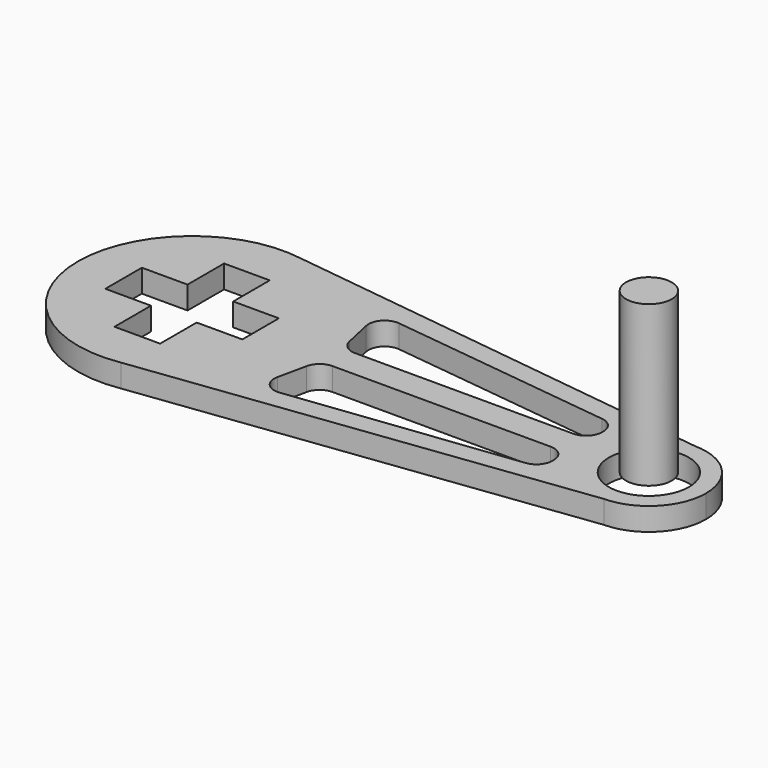
from build123d import *

# Parameters (mm, degrees)
F0_R     = 17.5
F1_DEPTH = 10
F2_R     = 10
F3_DEPTH = 70


with BuildPart() as f1:
    # F0 (on Top) → F1 (new body)
    with BuildSketch(Plane.XY):
        with BuildLine():
            ThreePointArc((8.223971, -49.319026), (38.152317, -32.317189), (50, 0))
            ThreePointArc((50, 0), (38.152317, 32.317189), (8.223971, 49.319026))
            ThreePointArc((8.223971, 49.319026), (-50, 0), (8.223971, -49.319026))
        make_face()
        Polygon((-10, 30), (0, 30), (10, 30), (10, 10), (30, 10), (30, 0), (30, -10), (10, -10), (10, -30), (0, -30), (-10, -30), (-10, -10), (-30, -10), (-30, 0), (-30, 10), (-10, 10), align=None, mode=Mode.SUBTRACT)
        with BuildLine():
            ThreePointArc((8.223971, 49.319026), (38.152317, 32.317189), (50, 0))
            ThreePointArc((50, 0), (38.152317, -32.317189), (8.223971, -49.319026))
            Line((8.223971, -49.319026), (200.258343, -24.998665))
            ThreePointArc((200.258343, -24.998665), (175, 0), (200.258343, 24.998665))
            Line((200.258343, 24.998665), (8.223971, 49.319026))
        make_face()
        with BuildLine():
            ThreePointArc((59.525263, -11.671441), (61.97309, -7.709214), (66.365193, -6.15985))
            Line((66.365193, -6.15985), (161.941186, -6.15985))
            ThreePointArc((161.941186, -6.15985), (166.890933, -8.210102), (168.941186, -13.15985))
            Line((168.941186, -13.15985), (168.941186, -13.984257))
            ThreePointArc((168.941186, -13.984257), (167.178818, -18.628308), (162.779127, -20.933923))
            Line((162.779127, -20.933923), (64.443675, -32.790513))
            ThreePointArc((64.443675, -32.790513), (58.428259, -30.551872), (56.765803, -24.352438))
            Line((56.765803, -24.352438), (59.525263, -11.671441))
        make_face(mode=Mode.SUBTRACT)
        with BuildLine():
            Line((59.525263, 11.671441), (56.765803, 24.352438))
            ThreePointArc((56.765803, 24.352438), (58.428259, 30.551872), (64.443675, 32.790513))
            Line((64.443675, 32.790513), (162.779127, 20.933923))
            ThreePointArc((162.779127, 20.933923), (167.178818, 18.628308), (168.941186, 13.984257))
            Line((168.941186, 13.984257), (168.941186, 13.15985))
            ThreePointArc((168.941186, 13.15985), (166.890933, 8.210102), (161.941186, 6.15985))
            Line((161.941186, 6.15985), (66.365193, 6.15985))
            ThreePointArc((66.365193, 6.15985), (61.97309, 7.709214), (59.525263, 11.671441))
        make_face(mode=Mode.SUBTRACT)
        with BuildLine():
            ThreePointArc((225, 0), (217.768773, 17.586094), (200.258343, 24.998665))
            ThreePointArc((200.258343, 24.998665), (175, 0), (200.258343, -24.998665))
            ThreePointArc((200.258343, -24.998665), (217.768773, -17.586094), (225, 0))
        make_face()
        with Locations((200, 0)):
            Circle(F0_R, mode=Mode.SUBTRACT)
    extrude(amount=F1_DEPTH)


with BuildPart() as f3:
    # F2 (on face) → F3 (new body)
    with BuildSketch(Plane.XY.offset(10)):
        with Locations((200, 0)):
            Circle(F2_R)
    extrude(amount=F3_DEPTH)


solid = Compound([f1.part, f3.part])
